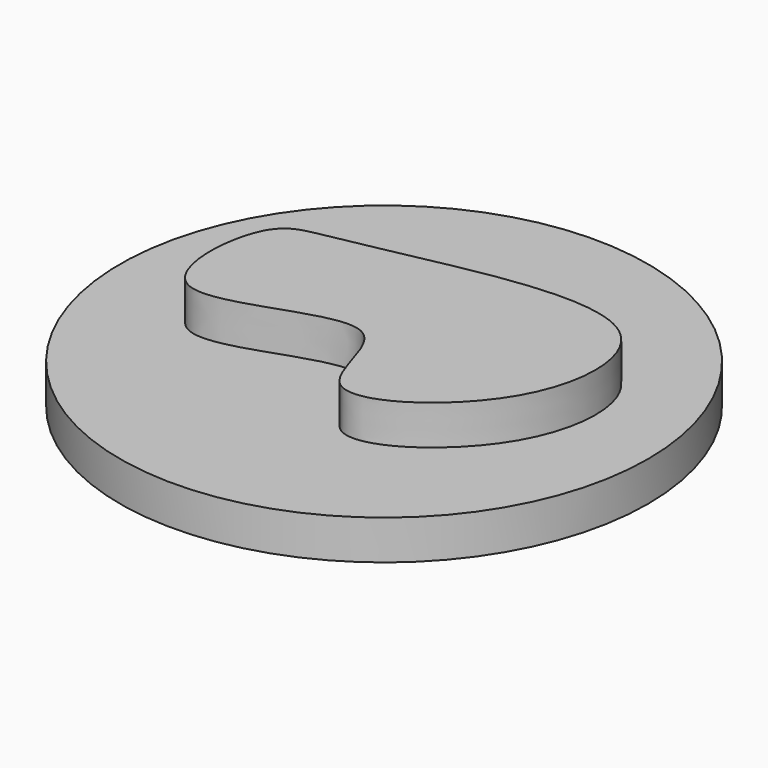
from build123d import *

# Parameters (mm, degrees)
F0_R     = 66.8354984162
F1_DEPTH = 10
F3_DEPTH = 10


with BuildPart() as f1:
    # F0 (on Top) → F1 (new body)
    with BuildSketch(Plane.XY):
        Circle(F0_R)
    extrude(amount=F1_DEPTH)

    # F2 (on face) → F3 (join)
    with BuildSketch(Plane.XY.offset(10)):
        with BuildLine():
            add(Edge.make_bspline(
                [(-41.6346155107, 13.8461543247), (-45.324897955, 6.7274855331), (-47.1098241665, -29.9379562205), (7.5959160578, 7.3865266925), (5.3904631715, -41.1986346538), (49.3255410323, -13.1300864682), (48.5089979062, 35.414875965), (-7.2807014811, 24.8261989776), (-30.1983950318, 19.7837965501), (-39.2070846851, 18.5289362498), (-41.6346155107, 13.8461543247)],
                knots=[0, 0, 0, 0, 0.1209759312, 0.2646797635, 0.3768880607, 0.5124790232, 0.6478359539, 0.8047293033, 0.920419966, 1, 1, 1, 1], degree=3))
        make_face()
    extrude(amount=F3_DEPTH)


solid = f1.part
